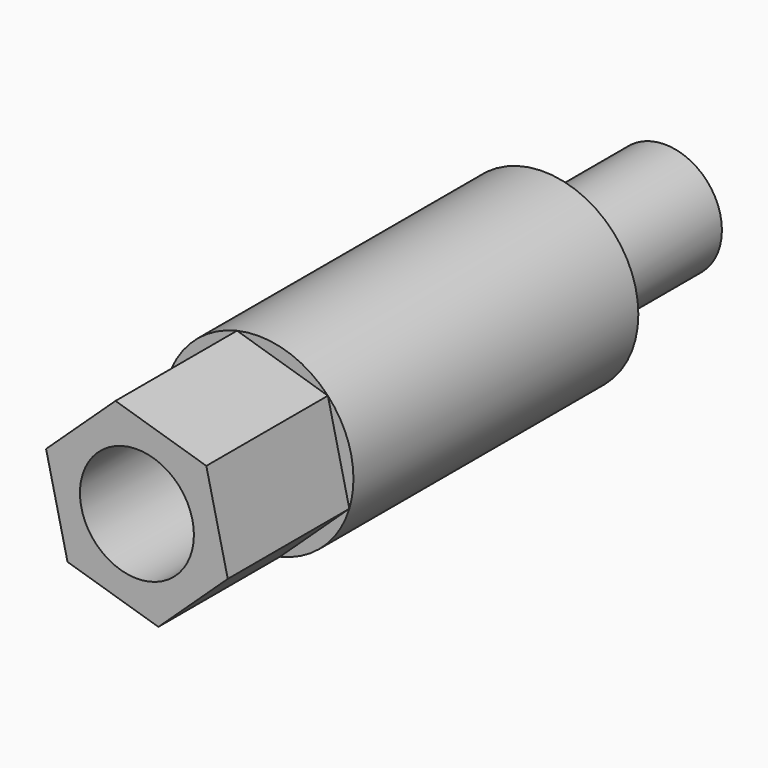
from build123d import *

# Parameters (mm, degrees)
F0_R     = 9.525
F1_DEPTH = 44.45
F2_DEPTH = 19.05
F3_R     = 15.875
F3_R_2   = 9.525
F4_DEPTH = 84.93252
F5_R     = 9.525
F6_DEPTH = 44.45
F8_DEPTH = 25.4
F9_SCALE = 0.5


with BuildPart() as f1:
    # F0 (on Front) → F1 (new body)
    with BuildSketch(Plane.XZ):
        with Locations((-30.6494925171, 6.8525290117)):
            Circle(F0_R)
    extrude(amount=F1_DEPTH)

    # F2 (cut): a face of the model
    f2_faces = [f1.faces().sort_by_distance(p)[0] for p in [
        (-30.6494925171, -44.45, 6.8525290117),
    ]]
    extrude(f2_faces, amount=-F2_DEPTH, mode=Mode.SUBTRACT)

    # F3 (on face) → F4 (join)
    with BuildSketch(Plane.XZ.offset(25.4)):
        with Locations((-30.6494925171, 6.8525290117)):
            Circle(F3_R)
        with Locations((-30.6494925171, 6.8525290117)):
            Circle(F3_R_2, mode=Mode.SUBTRACT)
        with Locations((-30.6494925171, 6.8525290117)):
            Circle(F3_R_2)
    extrude(amount=F4_DEPTH)

    # F5 (on face) → F6 (cut)
    with BuildSketch(Plane.XZ.offset(110.33252)):
        with Locations((-30.6494925171, 6.8525290117)):
            Circle(F5_R)
    extrude(amount=-F6_DEPTH, mode=Mode.SUBTRACT)

    # F7 (on face) → F8 (cut)
    with BuildSketch(Plane.XZ.offset(110.33252)):
        with BuildLine():
            Line((-45.8350943452, 11.4799604934), (-34.2348202137, 22.3173617074))
            ThreePointArc((-34.2348202137, 22.3173617074), (-41.4868937311, 18.4528031432), (-45.8350943452, 11.4799604934))
        make_face()
        with BuildLine():
            Line((-42.2497666486, -3.9848722024), (-45.8350943452, 11.4799604934))
            ThreePointArc((-45.8350943452, 11.4799604934), (-46.1143252129, 3.2672013151), (-42.2497666486, -3.9848722024))
        make_face()
        with BuildLine():
            ThreePointArc((-42.2497666486, -3.9848722024), (-35.2769239989, -8.3330728164), (-27.0641648205, -8.6123036841))
            Line((-27.0641648205, -8.6123036841), (-42.2497666486, -3.9848722024))
        make_face()
        with BuildLine():
            ThreePointArc((-27.0641648205, -8.6123036841), (-19.8120913031, -4.7477451198), (-15.463890689, 2.2250975299))
            Line((-15.463890689, 2.2250975299), (-27.0641648205, -8.6123036841))
        make_face()
        with BuildLine():
            ThreePointArc((-14.7744925171, 6.8525290117), (-15.8817916663, 12.6775300058), (-19.0492183856, 17.6899302257))
            Line((-19.0492183856, 17.6899302257), (-15.463890689, 2.2250975299))
            ThreePointArc((-15.463890689, 2.2250975299), (-14.9477879278, 4.5132774242), (-14.7744925171, 6.8525290117))
        make_face()
        with BuildLine():
            Line((-34.2348202137, 22.3173617074), (-19.0492183856, 17.6899302257))
            ThreePointArc((-19.0492183856, 17.6899302257), (-26.0220610354, 22.0381308398), (-34.2348202137, 22.3173617074))
        make_face()
    extrude(amount=-F8_DEPTH, mode=Mode.SUBTRACT)


with BuildPart() as f1_1:
    # F9: moved
    add(f1.part.scale(F9_SCALE))


solid = f1_1.part
